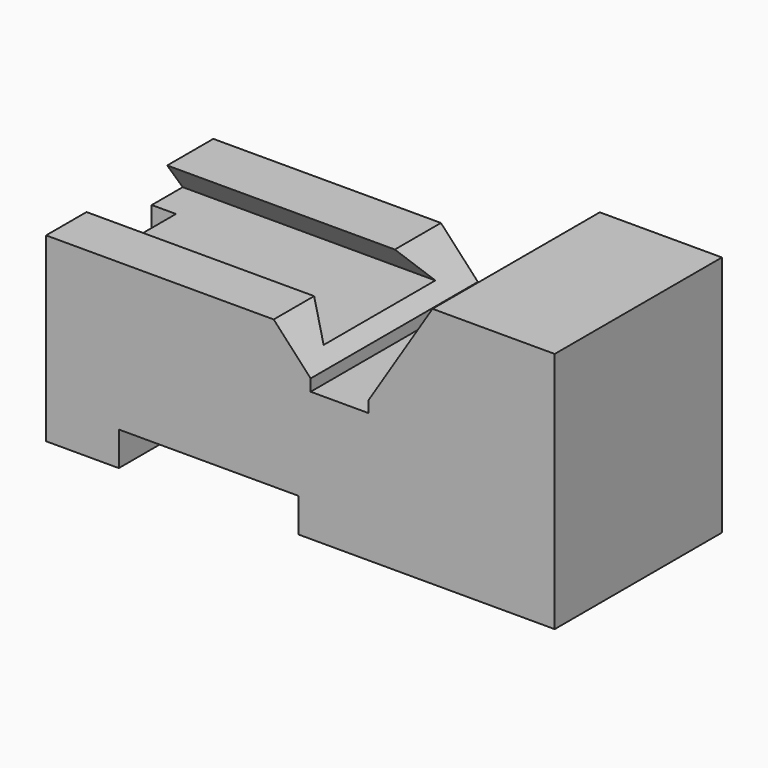
from build123d import *

# Parameters (mm, degrees)
F1_DEPTH = 28.4
F3_DEPTH = 71.3
F4_W     = 6.577678
F4_H     = 17.057187
F5_DEPTH = 70.5


with BuildPart() as f1:
    # F0 (on Front) → F1 (new body, symmetric)
    with BuildSketch(Plane.XZ):
        Polygon((19.129556, 18.970141), (-42.722672, 18.970141), (-42.722672, -30.288463), (-22.955466, -30.288463), (-22.955466, -21.042513), (25.824901, -21.042513), (25.824901, -30.288463), (54.519232, -30.288463), (95.488362, -30.288463), (95.488362, 35.549089), (62.292963, 35.549089), (44.954456, 8.130061), (44.954456, 4.941802), (29.172573, 4.941802), (29.172573, 8.130061), align=None)
    extrude(amount=F1_DEPTH, both=True)

    # F2 (on face) → F3 (cut)
    with BuildSketch(Plane(origin=(-42.722672, 0, 0), x_dir=(0, -1, 0), z_dir=(-1, 0, 0))):
        Polygon((14.665993, 18.970141), (-12.753037, 18.970141), (-18.013665, 11.637147), (19.926621, 11.637147), align=None)
    extrude(amount=-F3_DEPTH, mode=Mode.SUBTRACT)

    # F4 (on face) → F5 (cut)
    with BuildSketch(Plane.XY.offset(11.637147)):
        with Locations((-39.433833, -1.036185)):
            Rectangle(F4_W, F4_H)
    extrude(amount=-F5_DEPTH, mode=Mode.SUBTRACT)


solid = f1.part
